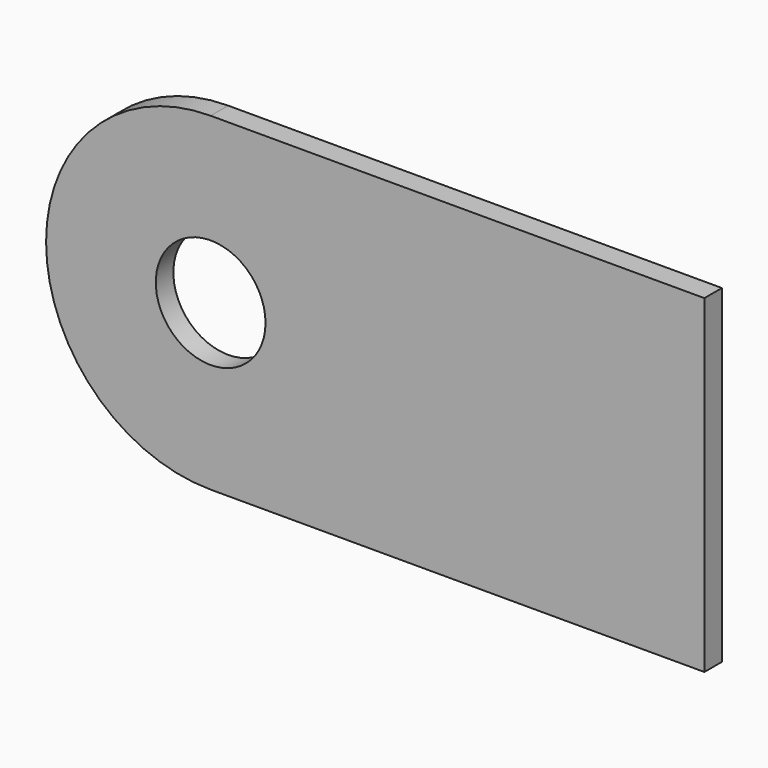
from build123d import *

# Parameters (mm, degrees)
F0_R     = 5
F1_DEPTH = 2


with BuildPart() as f1:
    # F0 (on Front) → F1 (new body)
    with BuildSketch(Plane.XZ):
        with BuildLine():
            Line((0, -30), (0, 0))
            Line((0, 0), (-45, 0))
            ThreePointArc((-45, 0), (-55.606602, -4.393398), (-60, -15))
            ThreePointArc((-60, -15), (-55.606602, -25.606602), (-45, -30))
            Line((-45, -30), (0, -30))
        make_face()
        with Locations((-45, -15)):
            Circle(F0_R, mode=Mode.SUBTRACT)
    extrude(amount=F1_DEPTH)


solid = f1.part
